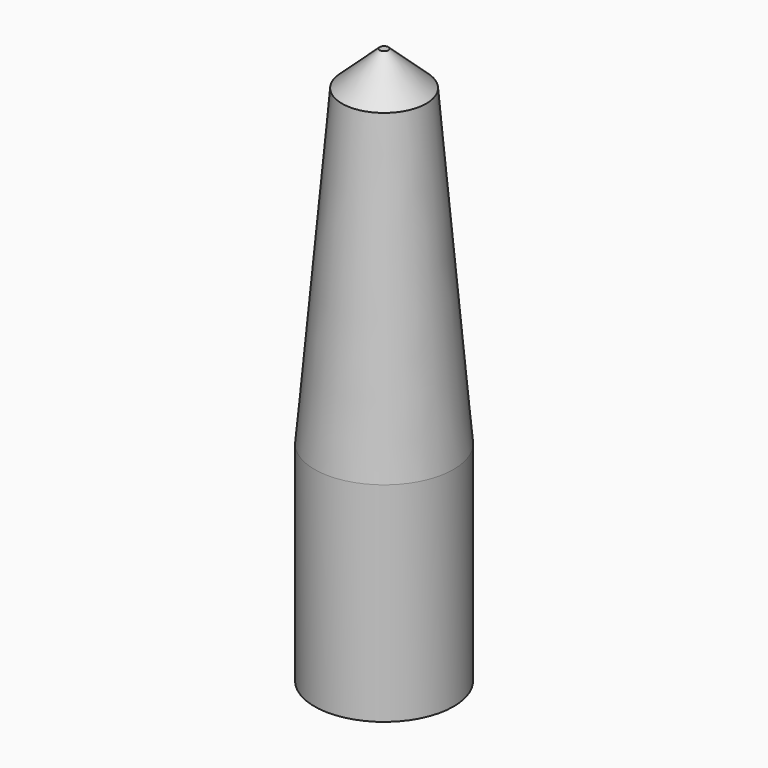
from build123d import *

# Parameters (mm, degrees)
F0_R     = 10
F1_DEPTH = 80
F2_SIZE2 = 4.3744331763
F2_SIZE  = 50
F3_SIZE  = 5
F5_D     = 12.5
F5_DEPTH = 30
F5_TIP   = 3.7553788689


with BuildPart() as f1:
    # F0 (on Top) → F1 (new body)
    with BuildSketch(Plane.XY):
        Circle(F0_R)
    extrude(amount=F1_DEPTH)

    # F2
    f2_edges = [f1.edges().sort_by_distance(p)[0] for p in [
        (-10, 0, 80),
    ]]
    f2_side = f1.faces().sort_by_distance((-10, 0, 40))[0]
    chamfer(f2_edges, length=F2_SIZE, length2=F2_SIZE2, reference=f2_side)

    # F3
    f3_edges = [f1.edges().sort_by_distance(p)[0] for p in [
        (-5.625567, 0, 80),
    ]]
    chamfer(f3_edges, length=F3_SIZE)

    # F5
    with Locations(Plane(origin=(0, 0, 0), x_dir=(1, 0, 0), z_dir=(0, 0, -1))):
        with Locations((0, 0)):
            Hole(F5_D / 2, depth=F5_DEPTH)
            with Locations((0, 0, -(F5_DEPTH + F5_TIP / 2))):  # 118° drill point
                Cone(0, F5_D / 2, F5_TIP, mode=Mode.SUBTRACT)


solid = f1.part
